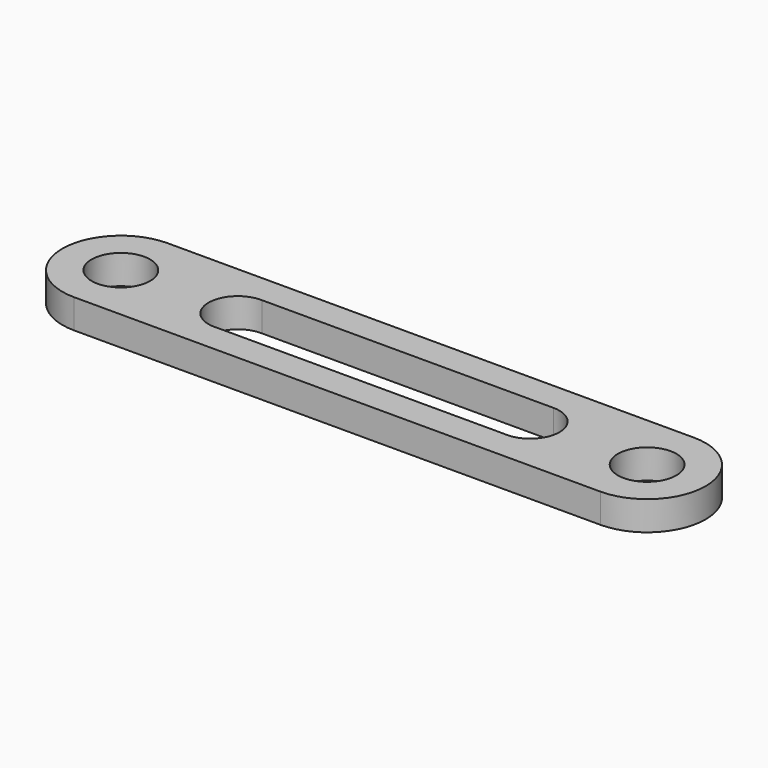
from build123d import *

# Parameters (mm, degrees)
F0_R     = 5
F1_DEPTH = 5


with BuildPart() as f1:
    # F0 (on Top) → F1 (new body)
    with BuildSketch(Plane.XY):
        with BuildLine():
            Line((90, 10), (0, 10))
            ThreePointArc((0, 10), (-10, 0), (0, -10))
            Line((0, -10), (90, -10))
            ThreePointArc((90, -10), (100, 0), (90, 10))
        make_face()
        with BuildLine():
            ThreePointArc((20.468396, -4.978012), (15.002667, -0.163292), (20.142422, 4.997971))
            Line((20.142422, 4.997971), (69.999797, 5))
            ThreePointArc((69.999797, 5), (74.994495, 0.234557), (70.468396, -4.978012))
            ThreePointArc((70.468396, -4.978012), (70, -5), (69.531604, -4.978012))
            Line((69.531604, -4.978012), (20.468396, -4.978012))
        make_face(mode=Mode.SUBTRACT)
        Circle(F0_R, mode=Mode.SUBTRACT)
        with Locations((90, 0)):
            Circle(F0_R, mode=Mode.SUBTRACT)
    extrude(amount=F1_DEPTH)


solid = f1.part
